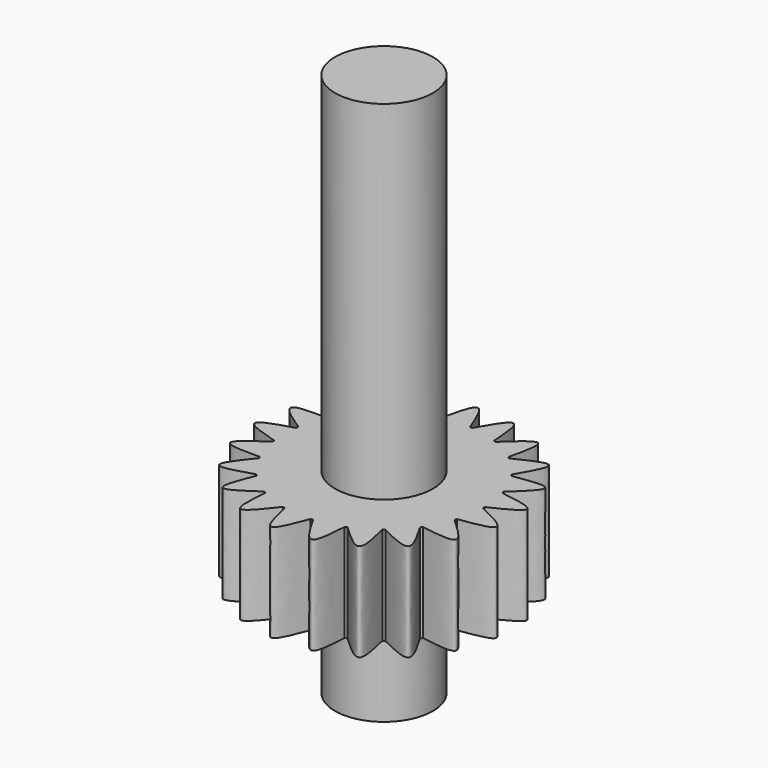
from build123d import *

# Parameters (mm, degrees)
F0_R     = 2.5
F1_DEPTH = 5
F2_COUNT = 21
F3_DEPTH = 22.8
F4_DEPTH = 5


with BuildPart() as f1:
    # F0 (on Top) → F1 (new body)
    with BuildSketch(Plane.XY):
        with BuildLine():
            ThreePointArc((-5.0517323761, -0.7), (0.3508310717, -5.0879187846), (5.1, 0))
            ThreePointArc((5.1, 0), (0.3508310717, 5.0879187846), (-5.0517323761, 0.7))
            ThreePointArc((-5.0517323761, 0.7), (-5.1, 0), (-5.0517323761, -0.7))
        make_face()
        Circle(F0_R, mode=Mode.SUBTRACT)
        with BuildLine():
            ThreePointArc((-5.0517323761, -0.7), (-5.1, 0), (-5.0517323761, 0.7))
            add(Edge.make_bspline(
                [(-5.0517323761, -0.7), (-5.8325955094, -0.4666666667), (-7.3674044906, 0), (-5.8325955094, 0.4666666667), (-5.0517323761, 0.7)],
                knots=[0, 0, 0, 0, 0.5, 1, 1, 1, 1], degree=3))
        make_face()
    extrude(amount=F1_DEPTH)


with BuildPart() as f2_1:
    # F2: instance of F1
    add(f1.part.rotate(Axis((0, 0, 5), (0, 0, 1)), 1 * 360 / F2_COUNT))


with BuildPart() as f2_2:
    # F2: instance of F1
    add(f1.part.rotate(Axis((0, 0, 5), (0, 0, 1)), 2 * 360 / F2_COUNT))


with BuildPart() as f2_3:
    # F2: instance of F1
    add(f1.part.rotate(Axis((0, 0, 5), (0, 0, 1)), 3 * 360 / F2_COUNT))


with BuildPart() as f2_4:
    # F2: instance of F1
    add(f1.part.rotate(Axis((0, 0, 5), (0, 0, 1)), 4 * 360 / F2_COUNT))


with BuildPart() as f2_5:
    # F2: instance of F1
    add(f1.part.rotate(Axis((0, 0, 5), (0, 0, 1)), 5 * 360 / F2_COUNT))


with BuildPart() as f2_6:
    # F2: instance of F1
    add(f1.part.rotate(Axis((0, 0, 5), (0, 0, 1)), 6 * 360 / F2_COUNT))


with BuildPart() as f2_7:
    # F2: instance of F1
    add(f1.part.rotate(Axis((0, 0, 5), (0, 0, 1)), 7 * 360 / F2_COUNT))


with BuildPart() as f2_8:
    # F2: instance of F1
    add(f1.part.rotate(Axis((0, 0, 5), (0, 0, 1)), 8 * 360 / F2_COUNT))


with BuildPart() as f2_9:
    # F2: instance of F1
    add(f1.part.rotate(Axis((0, 0, 5), (0, 0, 1)), 9 * 360 / F2_COUNT))


with BuildPart() as f2_10:
    # F2: instance of F1
    add(f1.part.rotate(Axis((0, 0, 5), (0, 0, 1)), 10 * 360 / F2_COUNT))


with BuildPart() as f2_11:
    # F2: instance of F1
    add(f1.part.rotate(Axis((0, 0, 5), (0, 0, 1)), 11 * 360 / F2_COUNT))


with BuildPart() as f2_12:
    # F2: instance of F1
    add(f1.part.rotate(Axis((0, 0, 5), (0, 0, 1)), 12 * 360 / F2_COUNT))


with BuildPart() as f2_13:
    # F2: instance of F1
    add(f1.part.rotate(Axis((0, 0, 5), (0, 0, 1)), 13 * 360 / F2_COUNT))


with BuildPart() as f2_14:
    # F2: instance of F1
    add(f1.part.rotate(Axis((0, 0, 5), (0, 0, 1)), 14 * 360 / F2_COUNT))


with BuildPart() as f2_15:
    # F2: instance of F1
    add(f1.part.rotate(Axis((0, 0, 5), (0, 0, 1)), 15 * 360 / F2_COUNT))


with BuildPart() as f2_16:
    # F2: instance of F1
    add(f1.part.rotate(Axis((0, 0, 5), (0, 0, 1)), 16 * 360 / F2_COUNT))


with BuildPart() as f2_17:
    # F2: instance of F1
    add(f1.part.rotate(Axis((0, 0, 5), (0, 0, 1)), 17 * 360 / F2_COUNT))


with BuildPart() as f2_18:
    # F2: instance of F1
    add(f1.part.rotate(Axis((0, 0, 5), (0, 0, 1)), 18 * 360 / F2_COUNT))


with BuildPart() as f2_19:
    # F2: instance of F1
    add(f1.part.rotate(Axis((0, 0, 5), (0, 0, 1)), 19 * 360 / F2_COUNT))


with BuildPart() as f2_20:
    # F2: instance of F1
    add(f1.part.rotate(Axis((0, 0, 5), (0, 0, 1)), 20 * 360 / F2_COUNT))


with BuildPart() as f1_1:
    add(f1.part)

    add(f2_1.part)  # F3 merges F2_1

    add(f2_2.part)  # F3 merges F2_2

    add(f2_3.part)  # F3 merges F2_3

    add(f2_4.part)  # F3 merges F2_4

    add(f2_5.part)  # F3 merges F2_5

    add(f2_6.part)  # F3 merges F2_6

    add(f2_7.part)  # F3 merges F2_7

    add(f2_8.part)  # F3 merges F2_8

    add(f2_9.part)  # F3 merges F2_9

    add(f2_10.part)  # F3 merges F2_10

    add(f2_11.part)  # F3 merges F2_11

    add(f2_12.part)  # F3 merges F2_12

    add(f2_13.part)  # F3 merges F2_13

    add(f2_14.part)  # F3 merges F2_14

    add(f2_15.part)  # F3 merges F2_15

    add(f2_16.part)  # F3 merges F2_16

    add(f2_17.part)  # F3 merges F2_17

    add(f2_18.part)  # F3 merges F2_18

    add(f2_19.part)  # F3 merges F2_19

    add(f2_20.part)  # F3 merges F2_20
    # F0 (on Top) → F3 (join)
    with BuildSketch(Plane.XY):
        Circle(F0_R)
    extrude(amount=F3_DEPTH)

    # F0 (on Top) → F4 (join)
    with BuildSketch(Plane.XY):
        Circle(F0_R)
    extrude(amount=-F4_DEPTH)


solid = f1_1.part
